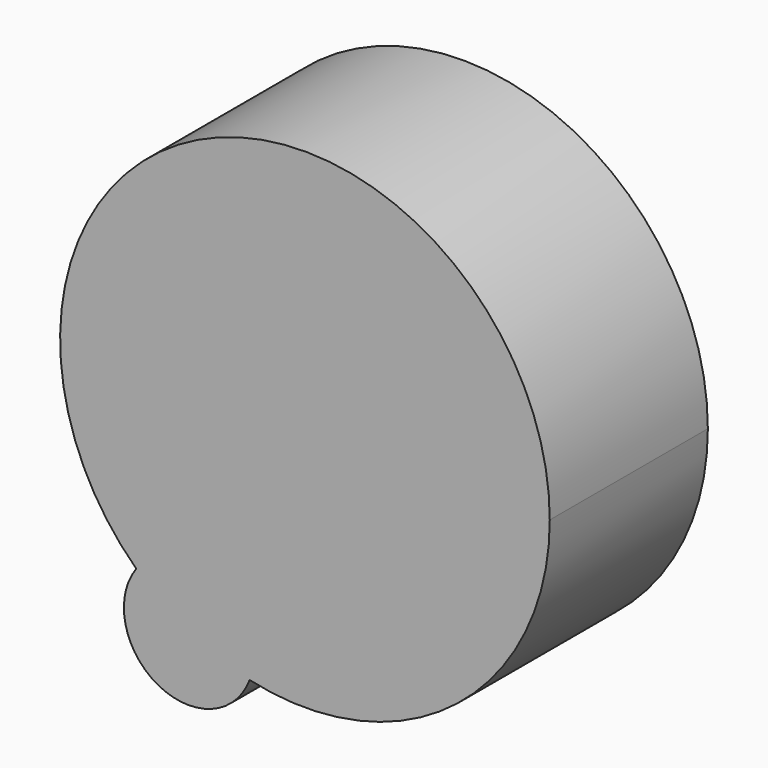
from build123d import *

# Parameters (mm, degrees)
F1_DEPTH = 25


with BuildPart() as f1:
    # F0 (on Front) → F1 (new body)
    with BuildSketch(Plane.XZ):
        with BuildLine():
            ThreePointArc((-123.6577194953, -23.9619754723), (-97.3893118602, -18.0396050469), (-85.6843646509, 6.2111252919))
            ThreePointArc((-85.6843646509, 6.2111252919), (-128.8732729222, 34.6752344052), (-137.9991579677, -16.2384722701))
            ThreePointArc((-137.9991579677, -16.2384722701), (-128.811017173, -13.2433317895), (-123.1281676254, -21.0598539561))
            ThreePointArc((-123.1281676254, -21.0598539561), (-123.261639602, -22.5348738269), (-123.6577194953, -23.9619754723))
        make_face()
        with BuildLine():
            ThreePointArc((-123.1281676254, -21.0598539561), (-128.811017173, -13.2433317895), (-137.9991579677, -16.2384722701))
            ThreePointArc((-137.9991579677, -16.2384722701), (-131.3452422619, -21.0598539561), (-123.6577194953, -23.9619754723))
            ThreePointArc((-123.6577194953, -23.9619754723), (-123.261639602, -22.5348738269), (-123.1281676254, -21.0598539561))
        make_face()
        with BuildLine():
            ThreePointArc((-123.6577194953, -23.9619754723), (-131.3452422619, -21.0598539561), (-137.9991579677, -16.2384722701))
            ThreePointArc((-137.9991579677, -16.2384722701), (-135.2414213283, -28.2945000611), (-123.6577194953, -23.9619754723))
        make_face()
    extrude(amount=F1_DEPTH)


solid = f1.part
